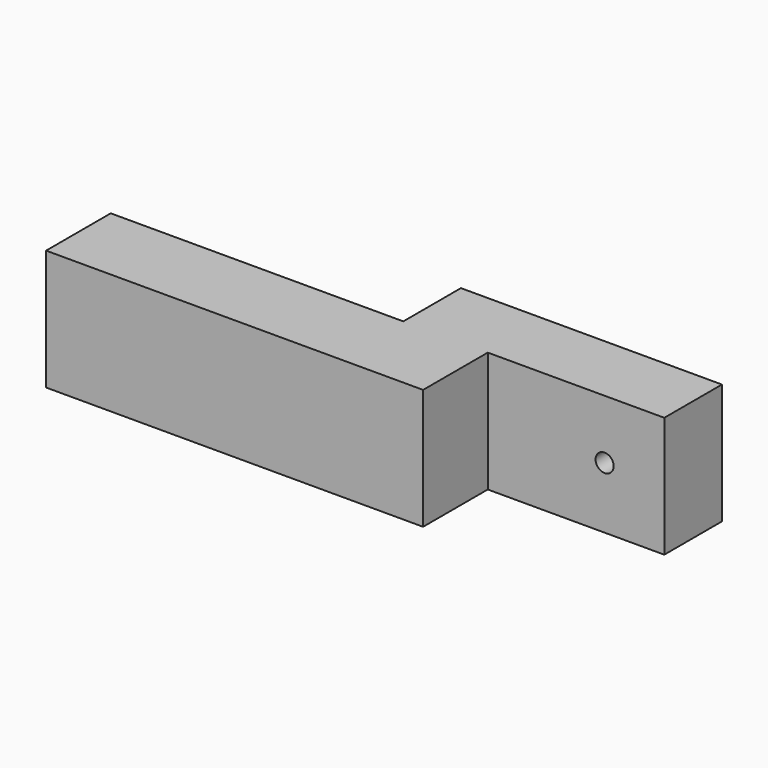
from build123d import *

# Parameters (mm, degrees)
PAD_DEPTH    = 20
SKETCH001_R  = 1.5
POCKET_DEPTH = 35
PAD001_DEPTH = 5


with BuildPart() as part:
    # Sketch → Pad (new body)
    with BuildSketch(Plane.XY):
        Polygon((-55.54966, 6.705533), (-55.54966, -6.705533), (7.007378, -6.705533), (7.007378, 6.705533), (36.297374, 6.705533), (36.297374, 18.658901), (-7.007378, 18.658901), (-7.007378, 6.705533), align=None)
    extrude(amount=PAD_DEPTH)

    # Sketch001 → Pocket (cut)
    with BuildSketch(Plane.XZ):
        with Locations((26.4, 10.204084)):
            Circle(SKETCH001_R)
    extrude(amount=-POCKET_DEPTH, mode=Mode.SUBTRACT)

    # Sketch002 → Pad001 (join)
    with BuildSketch(Plane.XY.offset(7.5)):
        with BuildLine():
            add(Edge.make_bspline(
                [(-30.4665, 6.414), (-17.93, 8.30904), (-10.6414, 10.933), (-6.9843, 17.705013)],
                knots=[0, 0, 0, 0, 1, 1, 1, 1], degree=3))
            Line((-6.9843, 17.705013), (-3.352778, 3.207006))
            Line((-3.352778, 3.207006), (-29.883389, 3.207006))
            Line((-29.883389, 3.207006), (-30.4665, 6.414))
        make_face()
    extrude(amount=PAD001_DEPTH)


solid = part.part
